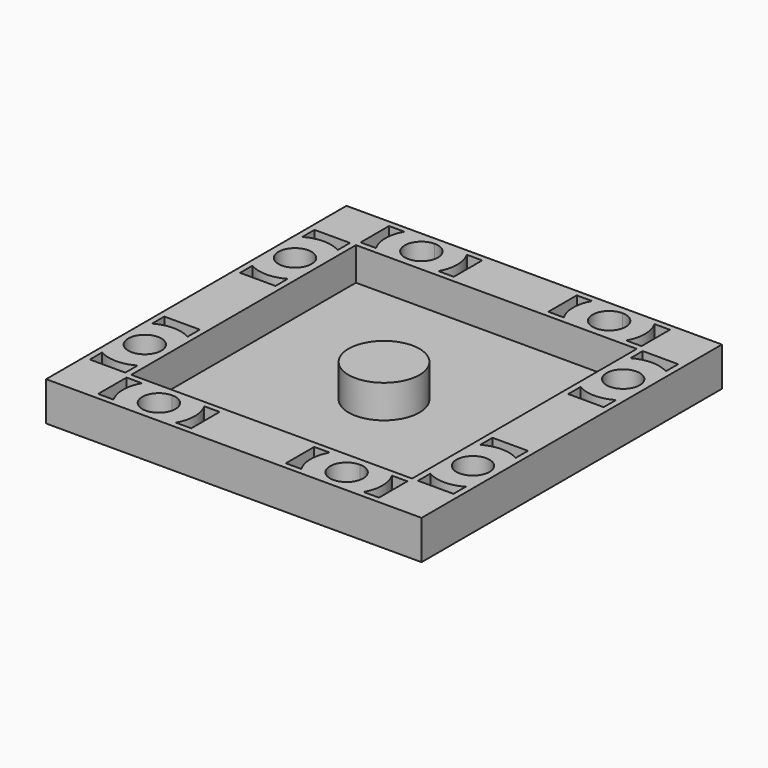
from build123d import *

# Parameters (mm, degrees)
F0_R     = 6
F0_W     = 7.875
F0_H     = 7.875
F1_DEPTH = 1
F2_DEPTH = 6.6


with BuildPart() as f1:
    # F0 (on Top) → F1 (new body)
    with BuildSketch(Plane.XY):
        Polygon((15.875, 23.75), (0, 23.75), (-15.875, 23.75), (-15.875, 15.875), (-23.75, 15.875), (-23.75, -15.875), (-23.75, -23.75), (-15.875, -23.75), (15.875, -23.75), (23.75, -23.75), (23.75, -15.875), (23.75, 15.875), (23.75, 23.75), align=None)
        Circle(F0_R, mode=Mode.SUBTRACT)
        with BuildLine():
            Line((-23.75, -15.875), (-23.75, 15.875))
            Line((-23.75, 15.875), (-24.95, 15.875))
            ThreePointArc((-24.95, 15.875), (-27.75, 13.075), (-30.55, 15.875))
            Line((-30.55, 15.875), (-31.75, 15.875))
            Line((-31.75, 15.875), (-31.75, -15.875))
            Line((-31.75, -15.875), (-30.55, -15.875))
            ThreePointArc((-30.55, -15.875), (-27.75, -13.075), (-24.95, -15.875))
            Line((-24.95, -15.875), (-23.75, -15.875))
        make_face()
        with BuildLine():
            Line((-24.75, -8), (-24.75, -10.6))
            ThreePointArc((-24.75, -10.6), (-27.75, -9.8065879342), (-30.75, -10.6))
            Line((-30.75, -10.6), (-30.75, -8))
            Line((-30.75, -8), (-24.75, -8))
        make_face(mode=Mode.SUBTRACT)
        with BuildLine():
            ThreePointArc((-30.75, 10.6), (-27.75, 9.8065879342), (-24.75, 10.6))
            Line((-24.75, 10.6), (-24.75, 8))
            Line((-24.75, 8), (-30.75, 8))
            Line((-30.75, 8), (-30.75, 10.6))
        make_face(mode=Mode.SUBTRACT)
        with BuildLine():
            Line((-15.875, -31.75), (15.875, -31.75))
            Line((15.875, -31.75), (15.875, -30.55))
            ThreePointArc((15.875, -30.55), (13.075, -27.75), (15.875, -24.95))
            Line((15.875, -24.95), (15.875, -23.75))
            Line((15.875, -23.75), (-15.875, -23.75))
            Line((-15.875, -23.75), (-15.875, -24.95))
            ThreePointArc((-15.875, -24.95), (-13.8951010127, -25.7701010127), (-13.075, -27.75))
            ThreePointArc((-13.075, -27.75), (-13.8951010127, -29.7298989873), (-15.875, -30.55))
            Line((-15.875, -30.55), (-15.875, -31.75))
        make_face()
        with BuildLine():
            Line((-8, -30.75), (-10.6, -30.75))
            ThreePointArc((-10.6, -30.75), (-9.8065879342, -27.75), (-10.6, -24.75))
            Line((-10.6, -24.75), (-8, -24.75))
            Line((-8, -24.75), (-8, -30.75))
        make_face(mode=Mode.SUBTRACT)
        with BuildLine():
            Line((8, -30.75), (8, -24.75))
            Line((8, -24.75), (10.6, -24.75))
            ThreePointArc((10.6, -24.75), (9.8065879342, -27.75), (10.6, -30.75))
            Line((10.6, -30.75), (8, -30.75))
        make_face(mode=Mode.SUBTRACT)
        with BuildLine():
            Line((31.75, -15.875), (31.75, 15.875))
            Line((31.75, 15.875), (30.55, 15.875))
            ThreePointArc((30.55, 15.875), (27.75, 13.075), (24.95, 15.875))
            Line((24.95, 15.875), (23.75, 15.875))
            Line((23.75, 15.875), (23.75, -15.875))
            Line((23.75, -15.875), (24.95, -15.875))
            ThreePointArc((24.95, -15.875), (27.75, -13.075), (30.55, -15.875))
            Line((30.55, -15.875), (31.75, -15.875))
        make_face()
        with BuildLine():
            ThreePointArc((30.75, -10.6), (27.75, -9.8065879342), (24.75, -10.6))
            Line((24.75, -10.6), (24.75, -8))
            Line((24.75, -8), (30.75, -8))
            Line((30.75, -8), (30.75, -10.6))
        make_face(mode=Mode.SUBTRACT)
        with BuildLine():
            Line((24.75, 8), (24.75, 10.6))
            ThreePointArc((24.75, 10.6), (27.75, 9.8065879342), (30.75, 10.6))
            Line((30.75, 10.6), (30.75, 8))
            Line((30.75, 8), (24.75, 8))
        make_face(mode=Mode.SUBTRACT)
        with BuildLine():
            Line((-31.75, -31.75), (-15.875, -31.75))
            Line((-15.875, -31.75), (-15.875, -30.55))
            ThreePointArc((-15.875, -30.55), (-18.675, -27.75), (-15.875, -24.95))
            Line((-15.875, -24.95), (-15.875, -23.75))
            Line((-15.875, -23.75), (-23.75, -23.75))
            Line((-23.75, -23.75), (-23.75, -15.875))
            Line((-23.75, -15.875), (-24.95, -15.875))
            ThreePointArc((-24.95, -15.875), (-27.75, -18.675), (-30.55, -15.875))
            Line((-30.55, -15.875), (-31.75, -15.875))
            Line((-31.75, -15.875), (-31.75, -31.75))
        make_face()
        with BuildLine():
            Line((-23.75, -30.75), (-23.75, -24.75))
            Line((-23.75, -24.75), (-21.15, -24.75))
            ThreePointArc((-21.15, -24.75), (-21.9434120658, -27.75), (-21.15, -30.75))
            Line((-21.15, -30.75), (-23.75, -30.75))
        make_face(mode=Mode.SUBTRACT)
        with BuildLine():
            ThreePointArc((-30.75, -21.15), (-27.75, -21.9434120658), (-24.75, -21.15))
            Line((-24.75, -21.15), (-24.75, -23.75))
            Line((-24.75, -23.75), (-30.75, -23.75))
            Line((-30.75, -23.75), (-30.75, -21.15))
        make_face(mode=Mode.SUBTRACT)
        with BuildLine():
            Line((31.75, -31.75), (31.75, -15.875))
            Line((31.75, -15.875), (30.55, -15.875))
            ThreePointArc((30.55, -15.875), (27.75, -18.675), (24.95, -15.875))
            Line((24.95, -15.875), (23.75, -15.875))
            Line((23.75, -15.875), (23.75, -23.75))
            Line((23.75, -23.75), (15.875, -23.75))
            Line((15.875, -23.75), (15.875, -24.95))
            ThreePointArc((15.875, -24.95), (17.8548989873, -25.7701010127), (18.675, -27.75))
            ThreePointArc((18.675, -27.75), (17.8548989873, -29.7298989873), (15.875, -30.55))
            Line((15.875, -30.55), (15.875, -31.75))
            Line((15.875, -31.75), (31.75, -31.75))
        make_face()
        with BuildLine():
            Line((21.15, -24.75), (23.75, -24.75))
            Line((23.75, -24.75), (23.75, -30.75))
            Line((23.75, -30.75), (21.15, -30.75))
            ThreePointArc((21.15, -30.75), (21.9434120658, -27.75), (21.15, -24.75))
        make_face(mode=Mode.SUBTRACT)
        with BuildLine():
            Line((24.75, -23.75), (24.75, -21.15))
            ThreePointArc((24.75, -21.15), (27.75, -21.9434120658), (30.75, -21.15))
            Line((30.75, -21.15), (30.75, -23.75))
            Line((30.75, -23.75), (24.75, -23.75))
        make_face(mode=Mode.SUBTRACT)
        with BuildLine():
            Line((31.75, 15.875), (31.75, 31.75))
            Line((31.75, 31.75), (15.875, 31.75))
            Line((15.875, 31.75), (15.875, 30.55))
            ThreePointArc((15.875, 30.55), (17.8548989873, 29.7298989873), (18.675, 27.75))
            ThreePointArc((18.675, 27.75), (17.8548989873, 25.7701010127), (15.875, 24.95))
            Line((15.875, 24.95), (15.875, 23.75))
            Line((15.875, 23.75), (23.75, 23.75))
            Line((23.75, 23.75), (23.75, 15.875))
            Line((23.75, 15.875), (24.95, 15.875))
            ThreePointArc((24.95, 15.875), (27.75, 18.675), (30.55, 15.875))
            Line((30.55, 15.875), (31.75, 15.875))
        make_face()
        with BuildLine():
            ThreePointArc((30.75, 21.15), (27.75, 21.9434120658), (24.75, 21.15))
            Line((24.75, 21.15), (24.75, 23.75))
            Line((24.75, 23.75), (30.75, 23.75))
            Line((30.75, 23.75), (30.75, 21.15))
        make_face(mode=Mode.SUBTRACT)
        with BuildLine():
            ThreePointArc((21.15, 24.75), (21.9434120658, 27.75), (21.15, 30.75))
            Line((21.15, 30.75), (23.75, 30.75))
            Line((23.75, 30.75), (23.75, 24.75))
            Line((23.75, 24.75), (21.15, 24.75))
        make_face(mode=Mode.SUBTRACT)
        with BuildLine():
            Line((0, 23.75), (0, 31.75))
            Line((0, 31.75), (-15.875, 31.75))
            Line((-15.875, 31.75), (-15.875, 30.55))
            ThreePointArc((-15.875, 30.55), (-13.8951010127, 29.7298989873), (-13.075, 27.75))
            ThreePointArc((-13.075, 27.75), (-13.8951010127, 25.7701010127), (-15.875, 24.95))
            Line((-15.875, 24.95), (-15.875, 23.75))
            Line((-15.875, 23.75), (0, 23.75))
        make_face()
        with BuildLine():
            ThreePointArc((-10.6, 24.75), (-9.8065879342, 27.75), (-10.6, 30.75))
            Line((-10.6, 30.75), (-8, 30.75))
            Line((-8, 30.75), (-8, 24.75))
            Line((-8, 24.75), (-10.6, 24.75))
        make_face(mode=Mode.SUBTRACT)
        with BuildLine():
            Line((15.875, 30.55), (15.875, 31.75))
            Line((15.875, 31.75), (0, 31.75))
            Line((0, 31.75), (0, 23.75))
            Line((0, 23.75), (15.875, 23.75))
            Line((15.875, 23.75), (15.875, 24.95))
            ThreePointArc((15.875, 24.95), (13.075, 27.75), (15.875, 30.55))
        make_face()
        with BuildLine():
            Line((8, 24.75), (8, 30.75))
            Line((8, 30.75), (10.6, 30.75))
            ThreePointArc((10.6, 30.75), (9.8065879342, 27.75), (10.6, 24.75))
            Line((10.6, 24.75), (8, 24.75))
        make_face(mode=Mode.SUBTRACT)
        Circle(F0_R)
        Polygon((-23.75, 30.75), (-23.75, 31.75), (-31.75, 31.75), (-31.75, 23.75), (-30.75, 23.75), (-24.75, 23.75), (-23.75, 23.75), (-23.75, 24.75), align=None)
        with Locations((-19.8125, 19.8125)):
            Rectangle(F0_W, F0_H)
        with BuildLine():
            Line((-15.875, 30.55), (-15.875, 31.75))
            Line((-15.875, 31.75), (-23.75, 31.75))
            Line((-23.75, 31.75), (-23.75, 30.75))
            Line((-23.75, 30.75), (-21.15, 30.75))
            ThreePointArc((-21.15, 30.75), (-21.9434120658, 27.75), (-21.15, 24.75))
            Line((-21.15, 24.75), (-23.75, 24.75))
            Line((-23.75, 24.75), (-23.75, 23.75))
            Line((-23.75, 23.75), (-15.875, 23.75))
            Line((-15.875, 23.75), (-15.875, 24.95))
            ThreePointArc((-15.875, 24.95), (-18.675, 27.75), (-15.875, 30.55))
        make_face()
        with BuildLine():
            Line((-23.75, 15.875), (-23.75, 23.75))
            Line((-23.75, 23.75), (-24.75, 23.75))
            Line((-24.75, 23.75), (-24.75, 21.15))
            ThreePointArc((-24.75, 21.15), (-27.75, 21.9434120658), (-30.75, 21.15))
            Line((-30.75, 21.15), (-30.75, 23.75))
            Line((-30.75, 23.75), (-31.75, 23.75))
            Line((-31.75, 23.75), (-31.75, 15.875))
            Line((-31.75, 15.875), (-30.55, 15.875))
            ThreePointArc((-30.55, 15.875), (-27.75, 18.675), (-24.95, 15.875))
            Line((-24.95, 15.875), (-23.75, 15.875))
        make_face()
        with BuildLine():
            Line((-21.15, 30.75), (-23.75, 30.75))
            Line((-23.75, 30.75), (-23.75, 24.75))
            Line((-23.75, 24.75), (-21.15, 24.75))
            ThreePointArc((-21.15, 24.75), (-21.9434120658, 27.75), (-21.15, 30.75))
        make_face()
        with BuildLine():
            Line((-24.75, 21.15), (-24.75, 23.75))
            Line((-24.75, 23.75), (-30.75, 23.75))
            Line((-30.75, 23.75), (-30.75, 21.15))
            ThreePointArc((-30.75, 21.15), (-27.75, 21.9434120658), (-24.75, 21.15))
        make_face()
        with BuildLine():
            Line((-24.75, 8), (-24.75, 10.6))
            ThreePointArc((-24.75, 10.6), (-27.75, 9.8065879342), (-30.75, 10.6))
            Line((-30.75, 10.6), (-30.75, 8))
            Line((-30.75, 8), (-24.75, 8))
        make_face()
        with BuildLine():
            Line((-8, 30.75), (-10.6, 30.75))
            ThreePointArc((-10.6, 30.75), (-9.8065879342, 27.75), (-10.6, 24.75))
            Line((-10.6, 24.75), (-8, 24.75))
            Line((-8, 24.75), (-8, 30.75))
        make_face()
        with BuildLine():
            Line((10.6, 30.75), (8, 30.75))
            Line((8, 30.75), (8, 24.75))
            Line((8, 24.75), (10.6, 24.75))
            ThreePointArc((10.6, 24.75), (9.8065879342, 27.75), (10.6, 30.75))
        make_face()
        with BuildLine():
            Line((23.75, 30.75), (21.15, 30.75))
            ThreePointArc((21.15, 30.75), (21.9434120658, 27.75), (21.15, 24.75))
            Line((21.15, 24.75), (23.75, 24.75))
            Line((23.75, 24.75), (23.75, 30.75))
        make_face()
        with BuildLine():
            Line((24.75, 23.75), (24.75, 21.15))
            ThreePointArc((24.75, 21.15), (27.75, 21.9434120658), (30.75, 21.15))
            Line((30.75, 21.15), (30.75, 23.75))
            Line((30.75, 23.75), (24.75, 23.75))
        make_face()
        with BuildLine():
            ThreePointArc((30.75, 10.6), (27.75, 9.8065879342), (24.75, 10.6))
            Line((24.75, 10.6), (24.75, 8))
            Line((24.75, 8), (30.75, 8))
            Line((30.75, 8), (30.75, 10.6))
        make_face()
        with BuildLine():
            Line((23.75, -30.75), (23.75, -24.75))
            Line((23.75, -24.75), (21.15, -24.75))
            ThreePointArc((21.15, -24.75), (21.9434120658, -27.75), (21.15, -30.75))
            Line((21.15, -30.75), (23.75, -30.75))
        make_face()
        with BuildLine():
            Line((10.6, -24.75), (8, -24.75))
            Line((8, -24.75), (8, -30.75))
            Line((8, -30.75), (10.6, -30.75))
            ThreePointArc((10.6, -30.75), (9.8065879342, -27.75), (10.6, -24.75))
        make_face()
        with BuildLine():
            ThreePointArc((-10.6, -24.75), (-9.8065879342, -27.75), (-10.6, -30.75))
            Line((-10.6, -30.75), (-8, -30.75))
            Line((-8, -30.75), (-8, -24.75))
            Line((-8, -24.75), (-10.6, -24.75))
        make_face()
        with BuildLine():
            Line((-21.15, -24.75), (-23.75, -24.75))
            Line((-23.75, -24.75), (-23.75, -30.75))
            Line((-23.75, -30.75), (-21.15, -30.75))
            ThreePointArc((-21.15, -30.75), (-21.9434120658, -27.75), (-21.15, -24.75))
        make_face()
        with BuildLine():
            ThreePointArc((-30.75, -10.6), (-27.75, -9.8065879342), (-24.75, -10.6))
            Line((-24.75, -10.6), (-24.75, -8))
            Line((-24.75, -8), (-30.75, -8))
            Line((-30.75, -8), (-30.75, -10.6))
        make_face()
        with BuildLine():
            Line((-24.75, -23.75), (-24.75, -21.15))
            ThreePointArc((-24.75, -21.15), (-27.75, -21.9434120658), (-30.75, -21.15))
            Line((-30.75, -21.15), (-30.75, -23.75))
            Line((-30.75, -23.75), (-24.75, -23.75))
        make_face()
        with BuildLine():
            ThreePointArc((30.75, -21.15), (27.75, -21.9434120658), (24.75, -21.15))
            Line((24.75, -21.15), (24.75, -23.75))
            Line((24.75, -23.75), (30.75, -23.75))
            Line((30.75, -23.75), (30.75, -21.15))
        make_face()
        with BuildLine():
            Line((24.75, -8), (24.75, -10.6))
            ThreePointArc((24.75, -10.6), (27.75, -9.8065879342), (30.75, -10.6))
            Line((30.75, -10.6), (30.75, -8))
            Line((30.75, -8), (24.75, -8))
        make_face()
        with BuildLine():
            Line((-15.875, 24.95), (-15.875, 30.55))
            ThreePointArc((-15.875, 30.55), (-18.675, 27.75), (-15.875, 24.95))
        make_face()
        with BuildLine():
            ThreePointArc((-13.075, 27.75), (-13.8951010127, 29.7298989873), (-15.875, 30.55))
            Line((-15.875, 30.55), (-15.875, 24.95))
            ThreePointArc((-15.875, 24.95), (-13.8951010127, 25.7701010127), (-13.075, 27.75))
        make_face()
        with BuildLine():
            Line((15.875, 24.95), (15.875, 30.55))
            ThreePointArc((15.875, 30.55), (13.075, 27.75), (15.875, 24.95))
        make_face()
        with BuildLine():
            ThreePointArc((18.675, 27.75), (17.8548989873, 29.7298989873), (15.875, 30.55))
            Line((15.875, 30.55), (15.875, 24.95))
            ThreePointArc((15.875, 24.95), (17.8548989873, 25.7701010127), (18.675, 27.75))
        make_face()
        with BuildLine():
            Line((24.95, 15.875), (30.55, 15.875))
            ThreePointArc((30.55, 15.875), (27.75, 18.675), (24.95, 15.875))
        make_face()
        with BuildLine():
            ThreePointArc((24.95, 15.875), (27.75, 13.075), (30.55, 15.875))
            Line((30.55, 15.875), (24.95, 15.875))
        make_face()
        with BuildLine():
            Line((-30.55, 15.875), (-24.95, 15.875))
            ThreePointArc((-24.95, 15.875), (-27.75, 18.675), (-30.55, 15.875))
        make_face()
        with BuildLine():
            ThreePointArc((-30.55, 15.875), (-27.75, 13.075), (-24.95, 15.875))
            Line((-24.95, 15.875), (-30.55, 15.875))
        make_face()
        with BuildLine():
            Line((-30.55, -15.875), (-24.95, -15.875))
            ThreePointArc((-24.95, -15.875), (-27.75, -13.075), (-30.55, -15.875))
        make_face()
        with BuildLine():
            ThreePointArc((-30.55, -15.875), (-27.75, -18.675), (-24.95, -15.875))
            Line((-24.95, -15.875), (-30.55, -15.875))
        make_face()
        with BuildLine():
            ThreePointArc((-15.875, -24.95), (-18.675, -27.75), (-15.875, -30.55))
            Line((-15.875, -30.55), (-15.875, -24.95))
        make_face()
        with BuildLine():
            Line((-15.875, -24.95), (-15.875, -30.55))
            ThreePointArc((-15.875, -30.55), (-13.8951010127, -29.7298989873), (-13.075, -27.75))
            ThreePointArc((-13.075, -27.75), (-13.8951010127, -25.7701010127), (-15.875, -24.95))
        make_face()
        with BuildLine():
            Line((15.875, -24.95), (15.875, -30.55))
            ThreePointArc((15.875, -30.55), (17.8548989873, -29.7298989873), (18.675, -27.75))
            ThreePointArc((18.675, -27.75), (17.8548989873, -25.7701010127), (15.875, -24.95))
        make_face()
        with BuildLine():
            ThreePointArc((15.875, -24.95), (13.075, -27.75), (15.875, -30.55))
            Line((15.875, -30.55), (15.875, -24.95))
        make_face()
        with BuildLine():
            Line((24.95, -15.875), (30.55, -15.875))
            ThreePointArc((30.55, -15.875), (27.75, -13.075), (24.95, -15.875))
        make_face()
        with BuildLine():
            ThreePointArc((24.95, -15.875), (27.75, -18.675), (30.55, -15.875))
            Line((30.55, -15.875), (24.95, -15.875))
        make_face()
    extrude(amount=F1_DEPTH)

    # F0 (on Top) → F2 (join)
    with BuildSketch(Plane.XY):
        with BuildLine():
            Line((31.75, 15.875), (31.75, 31.75))
            Line((31.75, 31.75), (15.875, 31.75))
            Line((15.875, 31.75), (15.875, 30.55))
            ThreePointArc((15.875, 30.55), (17.8548989873, 29.7298989873), (18.675, 27.75))
            ThreePointArc((18.675, 27.75), (17.8548989873, 25.7701010127), (15.875, 24.95))
            Line((15.875, 24.95), (15.875, 23.75))
            Line((15.875, 23.75), (23.75, 23.75))
            Line((23.75, 23.75), (23.75, 15.875))
            Line((23.75, 15.875), (24.95, 15.875))
            ThreePointArc((24.95, 15.875), (27.75, 18.675), (30.55, 15.875))
            Line((30.55, 15.875), (31.75, 15.875))
        make_face()
        with BuildLine():
            ThreePointArc((30.75, 21.15), (27.75, 21.9434120658), (24.75, 21.15))
            Line((24.75, 21.15), (24.75, 23.75))
            Line((24.75, 23.75), (30.75, 23.75))
            Line((30.75, 23.75), (30.75, 21.15))
        make_face(mode=Mode.SUBTRACT)
        with BuildLine():
            ThreePointArc((21.15, 24.75), (21.9434120658, 27.75), (21.15, 30.75))
            Line((21.15, 30.75), (23.75, 30.75))
            Line((23.75, 30.75), (23.75, 24.75))
            Line((23.75, 24.75), (21.15, 24.75))
        make_face(mode=Mode.SUBTRACT)
        with BuildLine():
            Line((15.875, 30.55), (15.875, 31.75))
            Line((15.875, 31.75), (0, 31.75))
            Line((0, 31.75), (0, 23.75))
            Line((0, 23.75), (15.875, 23.75))
            Line((15.875, 23.75), (15.875, 24.95))
            ThreePointArc((15.875, 24.95), (13.075, 27.75), (15.875, 30.55))
        make_face()
        with BuildLine():
            Line((8, 24.75), (8, 30.75))
            Line((8, 30.75), (10.6, 30.75))
            ThreePointArc((10.6, 30.75), (9.8065879342, 27.75), (10.6, 24.75))
            Line((10.6, 24.75), (8, 24.75))
        make_face(mode=Mode.SUBTRACT)
        with BuildLine():
            Line((31.75, -15.875), (31.75, 15.875))
            Line((31.75, 15.875), (30.55, 15.875))
            ThreePointArc((30.55, 15.875), (27.75, 13.075), (24.95, 15.875))
            Line((24.95, 15.875), (23.75, 15.875))
            Line((23.75, 15.875), (23.75, -15.875))
            Line((23.75, -15.875), (24.95, -15.875))
            ThreePointArc((24.95, -15.875), (27.75, -13.075), (30.55, -15.875))
            Line((30.55, -15.875), (31.75, -15.875))
        make_face()
        with BuildLine():
            ThreePointArc((30.75, -10.6), (27.75, -9.8065879342), (24.75, -10.6))
            Line((24.75, -10.6), (24.75, -8))
            Line((24.75, -8), (30.75, -8))
            Line((30.75, -8), (30.75, -10.6))
        make_face(mode=Mode.SUBTRACT)
        with BuildLine():
            Line((24.75, 8), (24.75, 10.6))
            ThreePointArc((24.75, 10.6), (27.75, 9.8065879342), (30.75, 10.6))
            Line((30.75, 10.6), (30.75, 8))
            Line((30.75, 8), (24.75, 8))
        make_face(mode=Mode.SUBTRACT)
        with BuildLine():
            Line((0, 23.75), (0, 31.75))
            Line((0, 31.75), (-15.875, 31.75))
            Line((-15.875, 31.75), (-15.875, 30.55))
            ThreePointArc((-15.875, 30.55), (-13.8951010127, 29.7298989873), (-13.075, 27.75))
            ThreePointArc((-13.075, 27.75), (-13.8951010127, 25.7701010127), (-15.875, 24.95))
            Line((-15.875, 24.95), (-15.875, 23.75))
            Line((-15.875, 23.75), (0, 23.75))
        make_face()
        with BuildLine():
            ThreePointArc((-10.6, 24.75), (-9.8065879342, 27.75), (-10.6, 30.75))
            Line((-10.6, 30.75), (-8, 30.75))
            Line((-8, 30.75), (-8, 24.75))
            Line((-8, 24.75), (-10.6, 24.75))
        make_face(mode=Mode.SUBTRACT)
        with BuildLine():
            Line((31.75, -31.75), (31.75, -15.875))
            Line((31.75, -15.875), (30.55, -15.875))
            ThreePointArc((30.55, -15.875), (27.75, -18.675), (24.95, -15.875))
            Line((24.95, -15.875), (23.75, -15.875))
            Line((23.75, -15.875), (23.75, -23.75))
            Line((23.75, -23.75), (15.875, -23.75))
            Line((15.875, -23.75), (15.875, -24.95))
            ThreePointArc((15.875, -24.95), (17.8548989873, -25.7701010127), (18.675, -27.75))
            ThreePointArc((18.675, -27.75), (17.8548989873, -29.7298989873), (15.875, -30.55))
            Line((15.875, -30.55), (15.875, -31.75))
            Line((15.875, -31.75), (31.75, -31.75))
        make_face()
        with BuildLine():
            Line((21.15, -24.75), (23.75, -24.75))
            Line((23.75, -24.75), (23.75, -30.75))
            Line((23.75, -30.75), (21.15, -30.75))
            ThreePointArc((21.15, -30.75), (21.9434120658, -27.75), (21.15, -24.75))
        make_face(mode=Mode.SUBTRACT)
        with BuildLine():
            Line((24.75, -23.75), (24.75, -21.15))
            ThreePointArc((24.75, -21.15), (27.75, -21.9434120658), (30.75, -21.15))
            Line((30.75, -21.15), (30.75, -23.75))
            Line((30.75, -23.75), (24.75, -23.75))
        make_face(mode=Mode.SUBTRACT)
        with BuildLine():
            Line((-15.875, 30.55), (-15.875, 31.75))
            Line((-15.875, 31.75), (-23.75, 31.75))
            Line((-23.75, 31.75), (-23.75, 30.75))
            Line((-23.75, 30.75), (-21.15, 30.75))
            ThreePointArc((-21.15, 30.75), (-21.9434120658, 27.75), (-21.15, 24.75))
            Line((-21.15, 24.75), (-23.75, 24.75))
            Line((-23.75, 24.75), (-23.75, 23.75))
            Line((-23.75, 23.75), (-15.875, 23.75))
            Line((-15.875, 23.75), (-15.875, 24.95))
            ThreePointArc((-15.875, 24.95), (-18.675, 27.75), (-15.875, 30.55))
        make_face()
        Polygon((-23.75, 30.75), (-23.75, 31.75), (-31.75, 31.75), (-31.75, 23.75), (-30.75, 23.75), (-24.75, 23.75), (-23.75, 23.75), (-23.75, 24.75), align=None)
        with BuildLine():
            Line((-15.875, -31.75), (15.875, -31.75))
            Line((15.875, -31.75), (15.875, -30.55))
            ThreePointArc((15.875, -30.55), (13.075, -27.75), (15.875, -24.95))
            Line((15.875, -24.95), (15.875, -23.75))
            Line((15.875, -23.75), (-15.875, -23.75))
            Line((-15.875, -23.75), (-15.875, -24.95))
            ThreePointArc((-15.875, -24.95), (-13.8951010127, -25.7701010127), (-13.075, -27.75))
            ThreePointArc((-13.075, -27.75), (-13.8951010127, -29.7298989873), (-15.875, -30.55))
            Line((-15.875, -30.55), (-15.875, -31.75))
        make_face()
        with BuildLine():
            Line((-8, -30.75), (-10.6, -30.75))
            ThreePointArc((-10.6, -30.75), (-9.8065879342, -27.75), (-10.6, -24.75))
            Line((-10.6, -24.75), (-8, -24.75))
            Line((-8, -24.75), (-8, -30.75))
        make_face(mode=Mode.SUBTRACT)
        with BuildLine():
            Line((8, -30.75), (8, -24.75))
            Line((8, -24.75), (10.6, -24.75))
            ThreePointArc((10.6, -24.75), (9.8065879342, -27.75), (10.6, -30.75))
            Line((10.6, -30.75), (8, -30.75))
        make_face(mode=Mode.SUBTRACT)
        with BuildLine():
            Line((-23.75, 15.875), (-23.75, 23.75))
            Line((-23.75, 23.75), (-24.75, 23.75))
            Line((-24.75, 23.75), (-24.75, 21.15))
            ThreePointArc((-24.75, 21.15), (-27.75, 21.9434120658), (-30.75, 21.15))
            Line((-30.75, 21.15), (-30.75, 23.75))
            Line((-30.75, 23.75), (-31.75, 23.75))
            Line((-31.75, 23.75), (-31.75, 15.875))
            Line((-31.75, 15.875), (-30.55, 15.875))
            ThreePointArc((-30.55, 15.875), (-27.75, 18.675), (-24.95, 15.875))
            Line((-24.95, 15.875), (-23.75, 15.875))
        make_face()
        with BuildLine():
            Line((-31.75, -31.75), (-15.875, -31.75))
            Line((-15.875, -31.75), (-15.875, -30.55))
            ThreePointArc((-15.875, -30.55), (-18.675, -27.75), (-15.875, -24.95))
            Line((-15.875, -24.95), (-15.875, -23.75))
            Line((-15.875, -23.75), (-23.75, -23.75))
            Line((-23.75, -23.75), (-23.75, -15.875))
            Line((-23.75, -15.875), (-24.95, -15.875))
            ThreePointArc((-24.95, -15.875), (-27.75, -18.675), (-30.55, -15.875))
            Line((-30.55, -15.875), (-31.75, -15.875))
            Line((-31.75, -15.875), (-31.75, -31.75))
        make_face()
        with BuildLine():
            Line((-23.75, -30.75), (-23.75, -24.75))
            Line((-23.75, -24.75), (-21.15, -24.75))
            ThreePointArc((-21.15, -24.75), (-21.9434120658, -27.75), (-21.15, -30.75))
            Line((-21.15, -30.75), (-23.75, -30.75))
        make_face(mode=Mode.SUBTRACT)
        with BuildLine():
            ThreePointArc((-30.75, -21.15), (-27.75, -21.9434120658), (-24.75, -21.15))
            Line((-24.75, -21.15), (-24.75, -23.75))
            Line((-24.75, -23.75), (-30.75, -23.75))
            Line((-30.75, -23.75), (-30.75, -21.15))
        make_face(mode=Mode.SUBTRACT)
        with BuildLine():
            Line((-23.75, -15.875), (-23.75, 15.875))
            Line((-23.75, 15.875), (-24.95, 15.875))
            ThreePointArc((-24.95, 15.875), (-27.75, 13.075), (-30.55, 15.875))
            Line((-30.55, 15.875), (-31.75, 15.875))
            Line((-31.75, 15.875), (-31.75, -15.875))
            Line((-31.75, -15.875), (-30.55, -15.875))
            ThreePointArc((-30.55, -15.875), (-27.75, -13.075), (-24.95, -15.875))
            Line((-24.95, -15.875), (-23.75, -15.875))
        make_face()
        with BuildLine():
            Line((-24.75, -8), (-24.75, -10.6))
            ThreePointArc((-24.75, -10.6), (-27.75, -9.8065879342), (-30.75, -10.6))
            Line((-30.75, -10.6), (-30.75, -8))
            Line((-30.75, -8), (-24.75, -8))
        make_face(mode=Mode.SUBTRACT)
        with BuildLine():
            ThreePointArc((-30.75, 10.6), (-27.75, 9.8065879342), (-24.75, 10.6))
            Line((-24.75, 10.6), (-24.75, 8))
            Line((-24.75, 8), (-30.75, 8))
            Line((-30.75, 8), (-30.75, 10.6))
        make_face(mode=Mode.SUBTRACT)
        Circle(F0_R)
    extrude(amount=F2_DEPTH)


solid = f1.part
